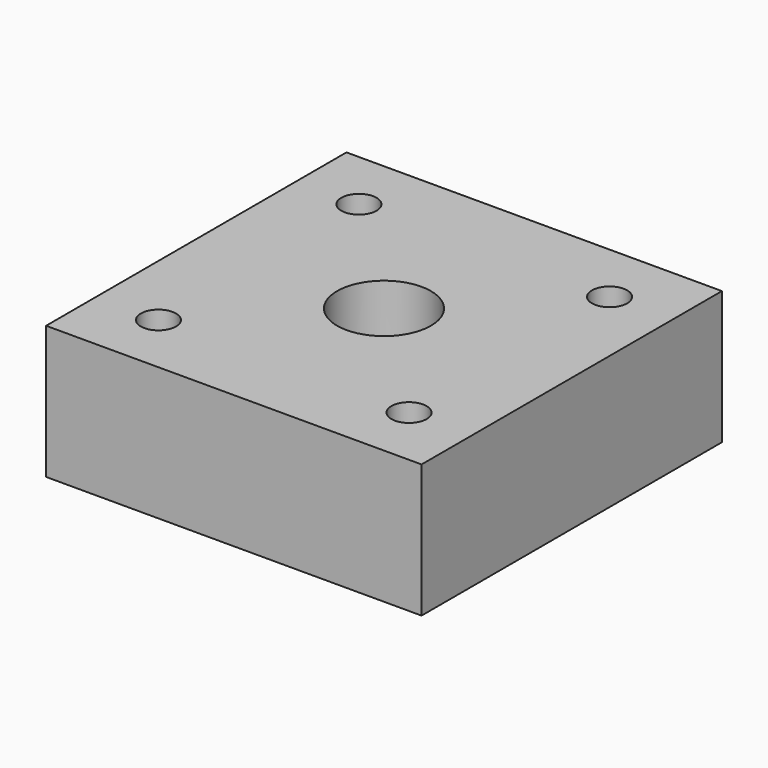
from build123d import *

# Parameters (mm, degrees)
F0_W     = 50.8
F0_H     = 50.8
F0_R     = 2.38125
F0_R_2   = 6.35
F1_DEPTH = 18.0086


with BuildPart() as f1:
    # F0 (on Top) → F1 (new body)
    with BuildSketch(Plane.XY):
        Rectangle(F0_W, F0_H)
        with Locations((-16.954627, -16.954627)):
            Circle(F0_R, mode=Mode.SUBTRACT)
        Circle(F0_R_2, mode=Mode.SUBTRACT)
        with Locations((16.954627, -16.954627)):
            Circle(F0_R, mode=Mode.SUBTRACT)
        with Locations((-16.954627, 16.954627)):
            Circle(F0_R, mode=Mode.SUBTRACT)
        with Locations((16.954627, 16.954627)):
            Circle(F0_R, mode=Mode.SUBTRACT)
    extrude(amount=F1_DEPTH)


solid = f1.part
